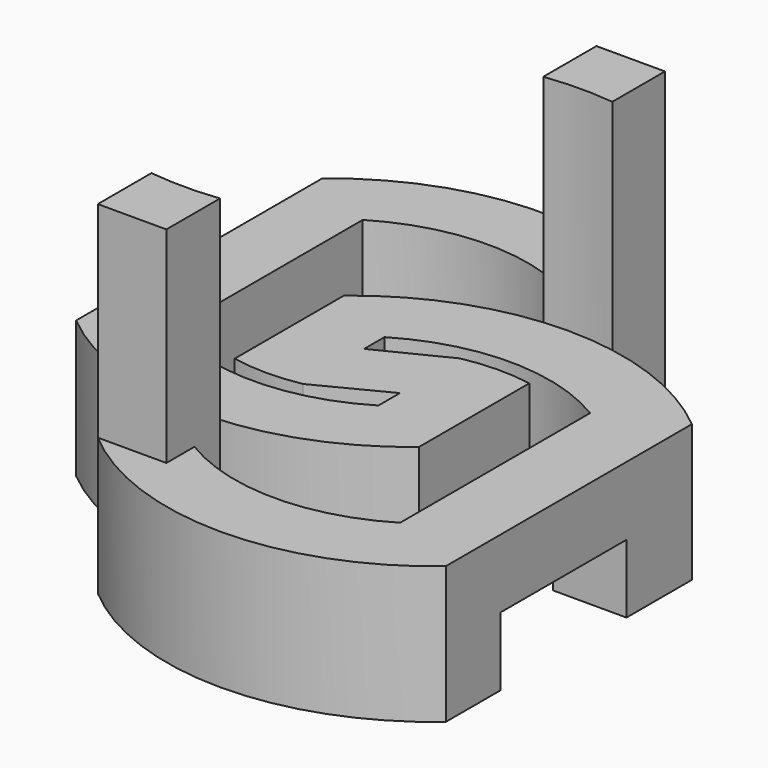
from build123d import *

# Parameters (mm, degrees)
F1_DEPTH = 12.7
F2_DEPTH = 50.8
F0_W     = 13.666504261
F0_H     = 29.129663293
F3_DEPTH = 12.7


with BuildPart() as f1:
    # F0 (on Top) → F1 (new body)
    with BuildSketch(Plane.XY):
        with BuildLine():
            ThreePointArc((3.0578177724, 47.1438282191), (-28.6921822276, 58.6511969227), (-60.4421822276, 47.1438282191))
            Line((-60.4421822276, 47.1438282191), (-60.4421822276, -9.8514343737))
            ThreePointArc((-60.4421822276, -9.8514343737), (-28.6921822276, -21.3588030773), (3.0578177724, -9.8514343737))
            Line((3.0578177724, -9.8514343737), (3.0578177724, 15.7243934782))
            ThreePointArc((3.0578177724, 15.7243934782), (-3.3005283958, 16.2251409604), (-9.6421822276, 15.5448904828))
            Line((-9.6421822276, 15.5448904828), (-9.6421822276, 1.6402346703))
            Line((-9.6421822276, 1.6402346703), (-9.6421822276, -3.3534845781))
            ThreePointArc((-9.6421822276, -3.3534845781), (-28.6921822276, -8.6588030681), (-47.7421822276, -3.3534845781))
            Line((-47.7421822276, -3.3534845781), (-47.7421822276, 40.6458784342))
            ThreePointArc((-47.7421822276, 40.6458784342), (-28.6921822276, 45.9511969227), (-9.6421822276, 40.6458784342))
            Line((-9.6421822276, 40.6458784342), (-9.6421822276, 47.1438282191))
            Line((-9.6421822276, 47.1438282191), (3.0578177724, 47.1438282191))
        make_face()
        with BuildLine():
            Line((3.0578177724, 34.9553501383), (3.0578177724, 47.1438282191))
            Line((3.0578177724, 47.1438282191), (-9.6421822276, 47.1438282191))
            Line((-9.6421822276, 47.1438282191), (-9.6421822276, 40.6458784342))
            Line((-9.6421822276, 40.6458784342), (-9.6421822276, 34.8409533928))
            ThreePointArc((-9.6421822276, 34.8409533928), (-3.2955894398, 35.2764107322), (3.0578177724, 34.9553501383))
        make_face()
    extrude(amount=-F1_DEPTH)

    # F0 (on Top) → F2 (join)
    with BuildSketch(Plane.XY):
        with BuildLine():
            Line((3.0578177724, 34.9553501383), (3.0578177724, 47.1438282191))
            Line((3.0578177724, 47.1438282191), (-9.6421822276, 47.1438282191))
            Line((-9.6421822276, 47.1438282191), (-9.6421822276, 40.6458784342))
            Line((-9.6421822276, 40.6458784342), (-9.6421822276, 34.8409533928))
            ThreePointArc((-9.6421822276, 34.8409533928), (-3.2955894398, 35.2764107322), (3.0578177724, 34.9553501383))
        make_face()
    extrude(amount=F2_DEPTH)



with BuildPart() as f1b:
    # F0 (on Top) → F1, piece 2 (new body)
    with BuildSketch(Plane.XY):
        with BuildLine():
            Line((-22.3420616333, -4.8797410205), (-22.3420616333, 9.2116537254))
            Line((-22.3420616333, 9.2116537254), (-22.3420616333, 13.9284846169))
            ThreePointArc((-22.3420616333, 13.9284846169), (-3.2920616333, 19.2338031054), (15.7579383667, 13.9284846169))
            Line((15.7579383667, 13.9284846169), (15.7579383667, 5.2839141095))
            Line((15.7579383667, 5.2839141095), (29.4244426276, 5.2839141095))
            Line((29.4244426276, 5.2839141095), (29.4244426276, 20.4192625928))
            ThreePointArc((29.4244426276, 20.4192625928), (-2.8137786862, 32.1035806717), (-35.052, 20.4192625928))
            Line((-35.052, 20.4192625928), (-35.052, -4.8778777905))
            ThreePointArc((-35.052, -4.8778777905), (-28.6971195064, -5.4838027062), (-22.3420616333, -4.8797410205))
        make_face()
    extrude(amount=-F1_DEPTH)


with BuildPart() as f1c:
    # F0 (on Top) → F1, piece 3 (new body)
    with BuildSketch(Plane.XY):
        with BuildLine():
            Line((29.4244426276, -23.8457491835), (15.7579383667, -23.8457491835))
            Line((15.7579383667, -23.8457491835), (15.7579383667, -30.0708783954))
            ThreePointArc((15.7579383667, -30.0708783954), (-3.2920616333, -35.3761968854), (-22.3420616333, -30.0708783954))
            Line((-22.3420616333, -30.0708783954), (-22.3420616333, -36.576))
            Line((-22.3420616333, -36.576), (-35.052, -36.576))
            ThreePointArc((-35.052, -36.576), (-2.8137786862, -48.4961576662), (29.4244426276, -36.576))
            Line((29.4244426276, -36.576), (29.4244426276, -23.8457491835))
        make_face()
        with BuildLine():
            Line((-22.3420616333, -36.576), (-22.3420616333, -30.0708783954))
            Line((-22.3420616333, -30.0708783954), (-22.3420616333, -24.150039099))
            ThreePointArc((-22.3420616333, -24.150039099), (-28.6970664182, -24.5338028511), (-35.052, -24.1488618101))
            Line((-35.052, -24.1488618101), (-35.052, -24.150039099))
            Line((-35.052, -24.150039099), (-35.052, -36.576))
            Line((-35.052, -36.576), (-22.3420616333, -36.576))
        make_face()
    extrude(amount=-F1_DEPTH)

    # F0 (on Top) → F2, piece 2 (join)
    with BuildSketch(Plane.XY):
        with BuildLine():
            Line((-22.3420616333, -36.576), (-22.3420616333, -30.0708783954))
            Line((-22.3420616333, -30.0708783954), (-22.3420616333, -24.150039099))
            ThreePointArc((-22.3420616333, -24.150039099), (-28.6970664182, -24.5338028511), (-35.052, -24.1488618101))
            Line((-35.052, -24.1488618101), (-35.052, -24.150039099))
            Line((-35.052, -24.150039099), (-35.052, -36.576))
            Line((-35.052, -36.576), (-22.3420616333, -36.576))
        make_face()
    extrude(amount=F2_DEPTH)


with BuildPart() as f1_1:
    add(f1.part)

    add(f1b.part)  # F3 merges F1b

    add(f1c.part)  # F3 merges F1c
    # F0 (on Top) → F3 (join)
    with BuildSketch(Plane.XY):
        with BuildLine():
            ThreePointArc((3.0578177724, 47.1438282191), (-28.6921822276, 58.6511969227), (-60.4421822276, 47.1438282191))
            Line((-60.4421822276, 47.1438282191), (-60.4421822276, -9.8514343737))
            ThreePointArc((-60.4421822276, -9.8514343737), (-28.6921822276, -21.3588030773), (3.0578177724, -9.8514343737))
            Line((3.0578177724, -9.8514343737), (3.0578177724, 15.7243934782))
            ThreePointArc((3.0578177724, 15.7243934782), (-3.3005283958, 16.2251409604), (-9.6421822276, 15.5448904828))
            Line((-9.6421822276, 15.5448904828), (-9.6421822276, 1.6402346703))
            Line((-9.6421822276, 1.6402346703), (-9.6421822276, -3.3534845781))
            ThreePointArc((-9.6421822276, -3.3534845781), (-28.6921822276, -8.6588030681), (-47.7421822276, -3.3534845781))
            Line((-47.7421822276, -3.3534845781), (-47.7421822276, 40.6458784342))
            ThreePointArc((-47.7421822276, 40.6458784342), (-28.6921822276, 45.9511969227), (-9.6421822276, 40.6458784342))
            Line((-9.6421822276, 40.6458784342), (-9.6421822276, 47.1438282191))
            Line((-9.6421822276, 47.1438282191), (3.0578177724, 47.1438282191))
        make_face()
        with BuildLine():
            Line((-22.3420616333, -4.8797410205), (-22.3420616333, 9.2116537254))
            Line((-22.3420616333, 9.2116537254), (-22.3420616333, 13.9284846169))
            ThreePointArc((-22.3420616333, 13.9284846169), (-3.2920616333, 19.2338031054), (15.7579383667, 13.9284846169))
            Line((15.7579383667, 13.9284846169), (15.7579383667, 5.2839141095))
            Line((15.7579383667, 5.2839141095), (29.4244426276, 5.2839141095))
            Line((29.4244426276, 5.2839141095), (29.4244426276, 20.4192625928))
            ThreePointArc((29.4244426276, 20.4192625928), (-2.8137786862, 32.1035806717), (-35.052, 20.4192625928))
            Line((-35.052, 20.4192625928), (-35.052, -4.8778777905))
            ThreePointArc((-35.052, -4.8778777905), (-28.6971195064, -5.4838027062), (-22.3420616333, -4.8797410205))
        make_face()
        Polygon((-9.6421822276, 1.6402346703), (-9.6421822276, 15.5448904828), (-22.3420616333, 9.2116537254), (-22.3420616333, -4.8797410205), align=None)
        with Locations((22.5911904972, -9.280917537)):
            Rectangle(F0_W, F0_H)
        with BuildLine():
            Line((29.4244426276, -23.8457491835), (15.7579383667, -23.8457491835))
            Line((15.7579383667, -23.8457491835), (15.7579383667, -30.0708783954))
            ThreePointArc((15.7579383667, -30.0708783954), (-3.2920616333, -35.3761968854), (-22.3420616333, -30.0708783954))
            Line((-22.3420616333, -30.0708783954), (-22.3420616333, -36.576))
            Line((-22.3420616333, -36.576), (-35.052, -36.576))
            ThreePointArc((-35.052, -36.576), (-2.8137786862, -48.4961576662), (29.4244426276, -36.576))
            Line((29.4244426276, -36.576), (29.4244426276, -23.8457491835))
        make_face()
    extrude(amount=F3_DEPTH)


solid = f1_1.part
